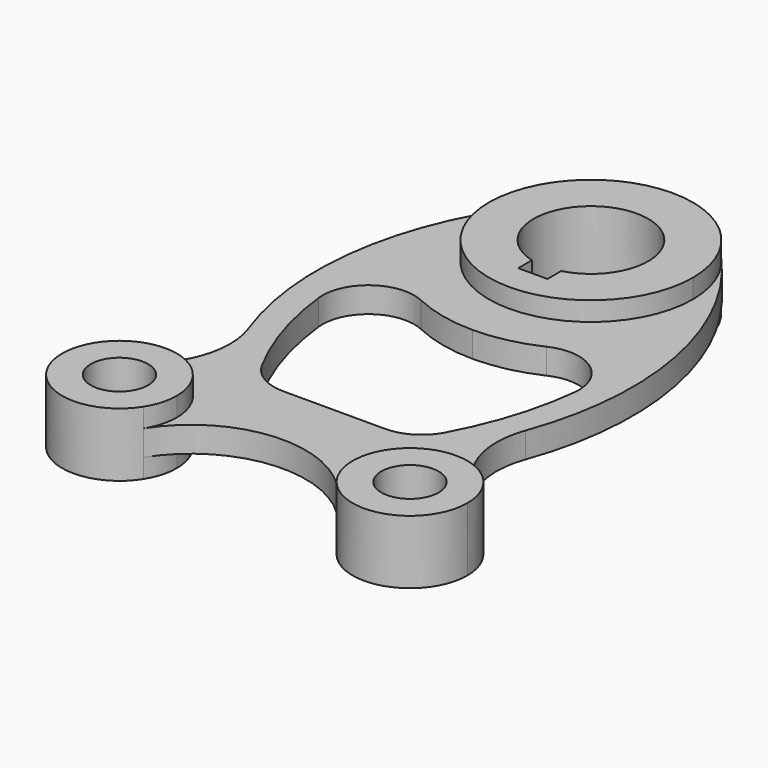
from build123d import *

# Parameters (mm, degrees)
F1_DEPTH = 5
F0_R     = 11.25
F2_DEPTH = 12.5


with BuildPart() as f1:
    # F0 (on Top) → F1 (new body, symmetric)
    with BuildSketch(Plane.XY):
        with BuildLine():
            ThreePointArc((29.673191, 26.823529), (37.329128, 14.371367), (40, 0))
            ThreePointArc((40, 0), (-14.371367, -37.329128), (-29.673191, 26.823529))
            ThreePointArc((-29.673191, 26.823529), (-59.646913, -33.143967), (-54.325328, -99.973642))
            ThreePointArc((-54.325328, -99.973642), (-54.17455, -122.930928), (-68.649394, -140.750542))
            ThreePointArc((-68.649394, -140.750542), (-45.951501, -140.399472), (-34.5, -160))
            ThreePointArc((-34.5, -160), (-35.39271, -166.27495), (-38, -172.051971))
            ThreePointArc((-38, -172.051971), (0, -151.155912), (38, -172.051971))
            ThreePointArc((38, -172.051971), (40.923535, -144.258422), (68.649394, -140.750542))
            ThreePointArc((68.649394, -140.750542), (54.17455, -122.930928), (54.325328, -99.973642))
            ThreePointArc((54.325328, -99.973642), (59.646913, -33.143967), (29.673191, 26.823529))
        make_face()
        with BuildLine():
            Line((20, -126), (0, -126))
            Line((0, -126), (-20, -126))
            ThreePointArc((-20, -126), (-29.20788, -123.466575), (-35.823818, -116.579439))
            ThreePointArc((-35.823818, -116.579439), (-45.216643, -94.378791), (-50.173426, -70.788025))
            ThreePointArc((-50.173426, -70.788025), (-42.760983, -54.166382), (-24.637228, -52.507209))
            ThreePointArc((-24.637228, -52.507209), (-12.621051, -56.61015), (0, -58))
            ThreePointArc((0, -58), (12.621051, -56.61015), (24.637228, -52.507209))
            ThreePointArc((24.637228, -52.507209), (42.760983, -54.166382), (50.173426, -70.788025))
            ThreePointArc((50.173426, -70.788025), (45.216643, -94.378791), (35.823818, -116.579439))
            ThreePointArc((35.823818, -116.579439), (29.20788, -123.466575), (20, -126))
        make_face(mode=Mode.SUBTRACT)
    extrude(amount=F1_DEPTH, both=True)

    # F0 (on Top) → F2 (join, symmetric)
    with BuildSketch(Plane.XY):
        with BuildLine():
            ThreePointArc((-34.5, -160), (-45.951501, -140.399472), (-68.649394, -140.750542))
            ThreePointArc((-68.649394, -140.750542), (-73.076465, -175.741578), (-38, -172.051971))
            ThreePointArc((-38, -172.051971), (-35.39271, -166.27495), (-34.5, -160))
        make_face()
        with Locations((-57, -160)):
            Circle(F0_R, mode=Mode.SUBTRACT)
        with BuildLine():
            ThreePointArc((-29.673191, 26.823529), (-14.371367, -37.329128), (40, 0))
            ThreePointArc((40, 0), (37.329128, 14.371367), (29.673191, 26.823529))
            ThreePointArc((29.673191, 26.823529), (0, 40), (-29.673191, 26.823529))
        make_face()
        with BuildLine():
            ThreePointArc((-5.75, -21.752873), (0, 22.5), (5.75, -21.752873))
            Line((5.75, -21.752873), (5.75, -28.5))
            Line((5.75, -28.5), (-5.75, -28.5))
            Line((-5.75, -28.5), (-5.75, -21.752873))
        make_face(mode=Mode.SUBTRACT)
        with BuildLine():
            ThreePointArc((79.5, -160), (76.600528, -148.951501), (68.649394, -140.750542))
            ThreePointArc((68.649394, -140.750542), (40.923535, -144.258422), (38, -172.051971))
            ThreePointArc((38, -172.051971), (63.27495, -181.60729), (79.5, -160))
        make_face()
        with Locations((57, -160)):
            Circle(F0_R, mode=Mode.SUBTRACT)
    extrude(amount=F2_DEPTH, both=True)


solid = f1.part
